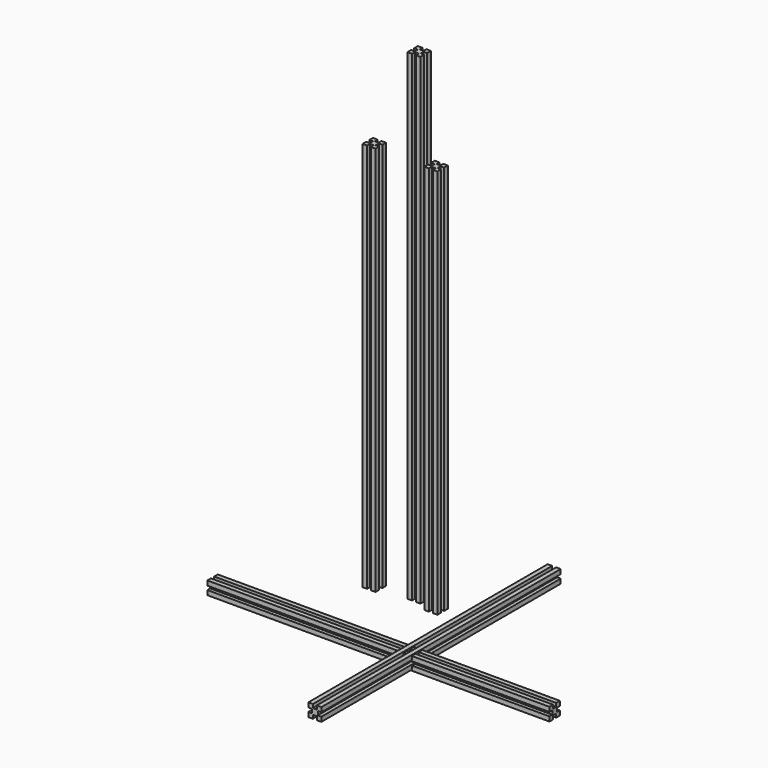
from build123d import *

# Parameters (mm, degrees)
F1_DEPTH = 740
F3_DEPTH = 600
F5_DEPTH = 600
F7_DEPTH = 263
F9_DEPTH = 230


with BuildPart() as f1:
    # F0 (on Top) → F1 (new body)
    with BuildSketch(Plane.XY):
        Polygon((0, 7), (0, 0), (7, 0), (7, 5.5), (13, 5.5), (13, 0), (20, 0), (20, 7), (14.5, 7), (14.5, 13), (20, 13), (20, 20), (13, 20), (13, 14.5), (7, 14.5), (7, 20), (0, 20), (0, 13), (5.5, 13), (5.5, 7), align=None)
    extrude(amount=F1_DEPTH)


with BuildPart() as f3:
    # F2 (on Top) → F3 (new body)
    with BuildSketch(Plane.XY):
        Polygon((-61, -3), (-61, -10), (-54, -10), (-54, -4.5), (-48, -4.5), (-48, -10), (-41, -10), (-41, -3), (-46.5, -3), (-46.5, 3), (-41, 3), (-41, 10), (-48, 10), (-48, 4.5), (-54, 4.5), (-54, 10), (-61, 10), (-61, 3), (-55.5, 3), (-55.5, -3), align=None)
    extrude(amount=F3_DEPTH)


with BuildPart() as f5:
    # F4 (on Top) → F5 (new body)
    with BuildSketch(Plane.XY):
        Polygon((34, -3), (34, -10), (41, -10), (41, -4.5), (47, -4.5), (47, -10), (54, -10), (54, -3), (48.5, -3), (48.5, 3), (54, 3), (54, 10), (47, 10), (47, 4.5), (41, 4.5), (41, 10), (34, 10), (34, 3), (39.5, 3), (39.5, -3), align=None)
    extrude(amount=F5_DEPTH)


with BuildPart() as f7:
    # F6 (on Right) → F7 (new body, symmetric)
    with BuildSketch(Plane.YZ):
        Polygon((-55.8782725036, -50.8875283152), (-55.8782725036, -57.8875283152), (-48.8782725036, -57.8875283152), (-48.8782725036, -52.3875283152), (-42.8782725036, -52.3875283152), (-42.8782725036, -57.8875283152), (-35.8782725036, -57.8875283152), (-35.8782725036, -50.8875283152), (-41.3782725036, -50.8875283152), (-41.3782725036, -44.8875283152), (-35.8782725036, -44.8875283152), (-35.8782725036, -37.8875283152), (-42.8782725036, -37.8875283152), (-42.8782725036, -43.3875283152), (-48.8782725036, -43.3875283152), (-48.8782725036, -37.8875283152), (-55.8782725036, -37.8875283152), (-55.8782725036, -44.8875283152), (-50.3782725036, -44.8875283152), (-50.3782725036, -50.8875283152), align=None)
    extrude(amount=F7_DEPTH, both=True)


with BuildPart() as f9:
    # F8 (on Front) → F9 (new body, symmetric)
    with BuildSketch(Plane.XZ):
        Polygon((31.5941774845, -49.3055819273), (31.5941774845, -56.3055819273), (38.5941774845, -56.3055819273), (38.5941774845, -50.8055819273), (44.5941774845, -50.8055819273), (44.5941774845, -56.3055819273), (51.5941774845, -56.3055819273), (51.5941774845, -49.3055819273), (46.0941774845, -49.3055819273), (46.0941774845, -43.3055819273), (51.5941774845, -43.3055819273), (51.5941774845, -36.3055819273), (44.5941774845, -36.3055819273), (44.5941774845, -41.8055819273), (38.5941774845, -41.8055819273), (38.5941774845, -36.3055819273), (31.5941774845, -36.3055819273), (31.5941774845, -43.3055819273), (37.0941774845, -43.3055819273), (37.0941774845, -49.3055819273), align=None)
    extrude(amount=F9_DEPTH, both=True)


solid = Compound([f1.part, f3.part, f5.part, f7.part, f9.part])
